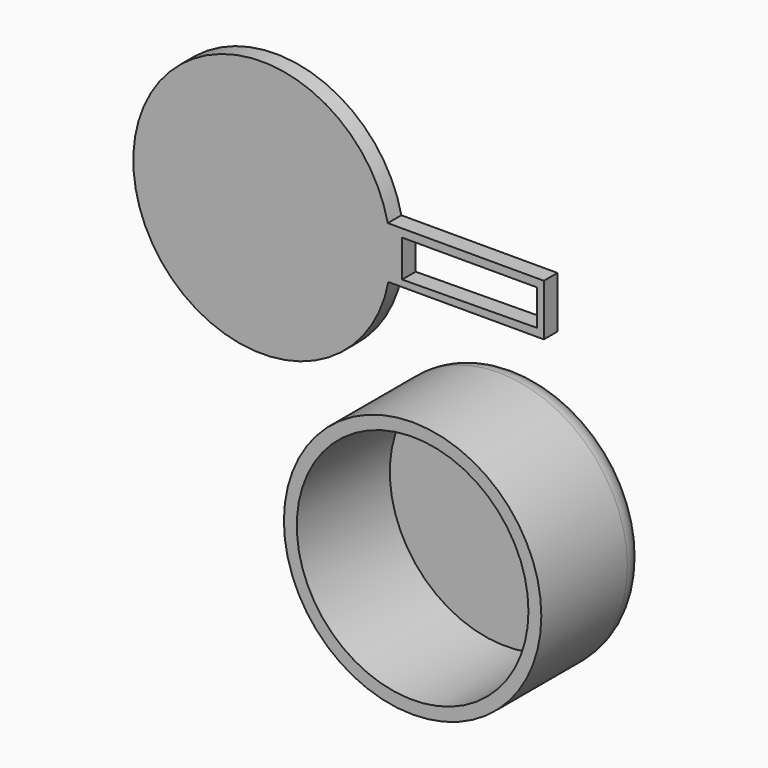
from build123d import *

# Parameters (mm, degrees)
F0_R     = 25.4
F1_DEPTH = 26.30578
F2_T     = -2.54
F3_DEPTH = 3.35342
F4_R     = 5.08


with BuildPart() as f1:
    # F0 (on Front) → F1 (new body)
    with BuildSketch(Plane.XZ):
        Circle(F0_R)
    extrude(amount=F1_DEPTH)

    # F2
    f2_openings = [f1.faces().sort_by_distance(p)[0] for p in [
        (0, -26.30578, 0),
    ]]
    offset(amount=F2_T, openings=f2_openings)

    # F0 (on Front) → F3 (join)
    with BuildSketch(Plane.XZ):
        Circle(F0_R)
        with BuildLine():
            ThreePointArc((-23.140551, 32.899971), (-22.797989, 35.287616), (-22.683458, 37.696989))
            ThreePointArc((-22.683458, 37.696989), (-22.828477, 40.407331), (-23.26188, 43.086725))
            ThreePointArc((-23.26188, 43.086725), (-73.481656, 37.394484), (-23.140551, 32.899971))
        make_face()
        with BuildLine():
            ThreePointArc((-23.26188, 43.086725), (-22.828477, 40.407331), (-22.683458, 37.696989))
            ThreePointArc((-22.683458, 37.696989), (-22.797989, 35.287616), (-23.140551, 32.899971))
            Line((-23.140551, 32.899971), (7.540722, 32.899971))
            Line((7.540722, 32.899971), (7.540722, 43.086725))
            Line((7.540722, 43.086725), (-23.26188, 43.086725))
        make_face()
        Polygon((6.159685, 34.460627), (-20.434218, 34.199208), (-20.434218, 41.492987), (6.159685, 41.492987), align=None, mode=Mode.SUBTRACT)
    extrude(amount=F3_DEPTH)

    # F4
    f4_edges = [f1.edges().sort_by_distance(p)[0] for p in [
        (-25.4, 0, 0),
    ]]
    fillet(f4_edges, radius=F4_R)


solid = f1.part
